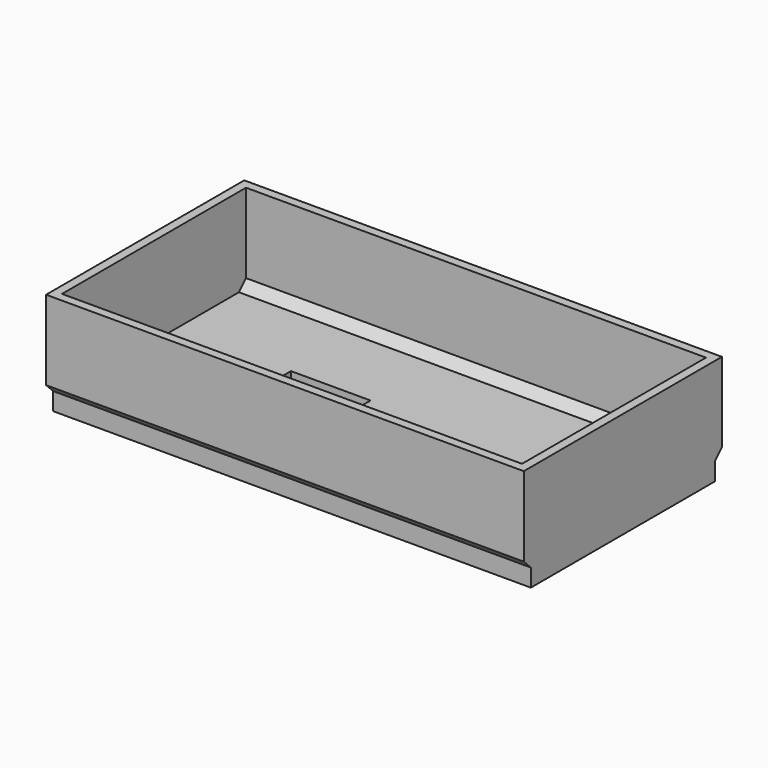
from build123d import *

# Parameters (mm, degrees)
SKETCH_W      = 54
SKETCH_H      = 26
SKETCH_R      = 1.1
SKETCH_W_2    = 9
SKETCH_H_2    = 6.2
PAD_DEPTH     = 2
SKETCH001_W   = 54
SKETCH001_H   = 28
SKETCH001_W_2 = 52
SKETCH001_H_2 = 26
PAD001_DEPTH  = 10
PAD002_DEPTH  = 52
POCKET_DEPTH  = 54.001


with BuildPart() as part:
    # Sketch → Pad (new body)
    with BuildSketch(Plane.XY):
        with Locations((27, 13)):
            Rectangle(SKETCH_W, SKETCH_H)
        with Locations((40.5, 13)):
            Circle(SKETCH_R, mode=Mode.SUBTRACT)
        with Locations((18.5, 13)):
            Rectangle(SKETCH_W_2, SKETCH_H_2, mode=Mode.SUBTRACT)
    extrude(amount=PAD_DEPTH)

    # Sketch001 (on Face11 of Pad) → Pad001 (join)
    with BuildSketch(Plane.XY.offset(2)):
        with Locations((27, 13)):
            Rectangle(SKETCH001_W, SKETCH001_H)
        with Locations((27, 13)):
            Rectangle(SKETCH001_W_2, SKETCH001_H_2, mode=Mode.SUBTRACT)
    extrude(amount=PAD001_DEPTH)

    # Sketch002 (on Face22 of Pad001) → Pad002 (join)
    with BuildSketch(Plane.YZ.offset(1)):
        Polygon((0, 2), (0, 3), (1, 2), align=None)
        Polygon((26, 2), (26, 3), (25, 2), align=None)
    extrude(amount=PAD002_DEPTH)

    # Sketch003 (on Face8 of Pad002) → Pocket (cut, through all)
    with BuildSketch(Plane.YZ.offset(54)):
        Polygon((-1, 2), (-1, 3), (0, 2), align=None)
        Polygon((27, 2), (27, 3), (26, 2), align=None)
    extrude(amount=-POCKET_DEPTH, mode=Mode.SUBTRACT)


solid = part.part
